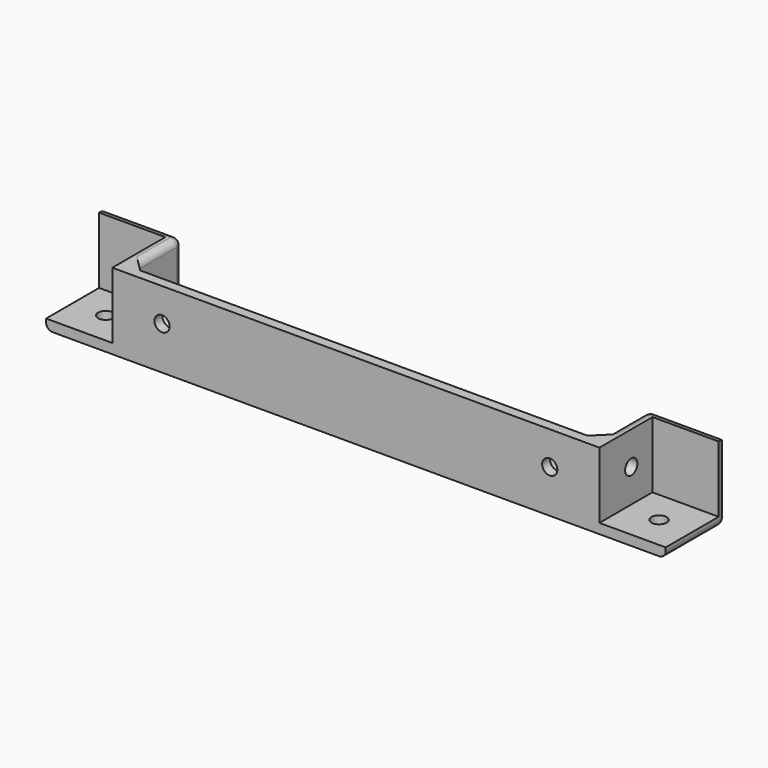
from build123d import *

# Parameters (mm, degrees)
F0_W          = 141
F0_H          = 17
F0_W_2        = 20
F0_H_2        = 20
F0_H_3        = 2.5
F8_DEPTH      = 3
F1_DEPTH      = 20
F9_R          = 2.3
F10_DEPTH     = 3
F2_R          = 2.3
F3_DEPTH      = 164.001
F3_DEPTH_BACK = 23.001
F4_R          = 2.3
F5_DEPTH      = 3
F6_SIZE       = 3
F7_R          = 2


with BuildPart() as f8:
    # F0 (on Top) → F8 (new body)
    with BuildSketch(Plane.XY):
        with Locations((0, 1.5)):
            Rectangle(F0_W, F0_H)
        Polygon((-73.5, -10), (73.5, -10), (73.5, 10), (70.5, 10), (70.5, -7), (-70.5, -7), (-70.5, 10), (-73.5, 10), align=None)
        with Locations((-83.5, 0)):
            Rectangle(F0_W_2, F0_H_2)
        Polygon((-93.5, 10), (-73.5, 10), (-70.5, 10), (-70.5, 12.5), (-93.5, 12.5), align=None)
        with Locations((83.5, 0)):
            Rectangle(F0_W_2, F0_H_2)
        Polygon((73.5, 10), (93.5, 10), (93.5, 12.5), (70.5, 12.5), (70.5, 10), align=None)
        with Locations((0, 11.25)):
            Rectangle(F0_W, F0_H_3)
    extrude(amount=-F8_DEPTH)

    # F0 (on Top) → F1 (join)
    with BuildSketch(Plane.XY):
        Polygon((-73.5, -10), (73.5, -10), (73.5, 10), (70.5, 10), (70.5, -7), (-70.5, -7), (-70.5, 10), (-73.5, 10), align=None)
        Polygon((-93.5, 10), (-73.5, 10), (-70.5, 10), (-70.5, 12.5), (-93.5, 12.5), align=None)
        Polygon((73.5, 10), (93.5, 10), (93.5, 12.5), (70.5, 12.5), (70.5, 10), align=None)
    extrude(amount=F1_DEPTH)

    # F9 (on face) → F10 (cut, through all)
    with BuildSketch(Plane(origin=(0, 0, -3), x_dir=(1, 0, 0), z_dir=(0, 0, -1))):
        with Locations((-83.5, 0)):
            Circle(F9_R)
        with Locations((83.5, 0)):
            Circle(F9_R)
    extrude(amount=-F10_DEPTH, mode=Mode.SUBTRACT)

    # F2 (on face) → F3 (cut, two sides)
    with BuildSketch(Plane.YZ.offset(-70.5)) as f3_sk:
        with Locations((2, 10)):
            Circle(F2_R)
    extrude(amount=F3_DEPTH, mode=Mode.SUBTRACT)
    extrude(f3_sk.sketch, amount=-F3_DEPTH_BACK, mode=Mode.SUBTRACT)

    # F4 (on face) → F5 (cut, through all)
    with BuildSketch(Plane.XZ.offset(10)):
        with Locations((-58.5, 10)):
            Circle(F4_R)
        with Locations((58.5, 10)):
            Circle(F4_R)
    extrude(amount=-F5_DEPTH, mode=Mode.SUBTRACT)

    # F6
    f6_edges = [f8.edges().sort_by_distance(p)[0] for p in [
        (70.5, -7, 10),
        (70.5, 2.75, 0),
        (-70.5, -7, 10),
        (-70.5, 2.75, 0),
        (0, -7, 0),
    ]]
    chamfer(f6_edges, length=F6_SIZE)

    # F7
    f7_edges = [f8.edges().sort_by_distance(p)[0] for p in [
        (-93.5, 12.5, 8.5),
        (-70.5, 12.5, 11.5),
        (0, 12.5, -3),
        (-82, 12.5, 20),
        (82, 12.5, 20),
        (93.5, 12.5, 8.5),
        (70.5, 12.5, 11.5),
        (93.5, 1.25, -3),
        (-93.5, 1.25, -3),
        (-70.5, 4.25, 20),
        (70.5, 4.25, 20),
    ]]
    fillet(f7_edges, radius=F7_R)


solid = f8.part
